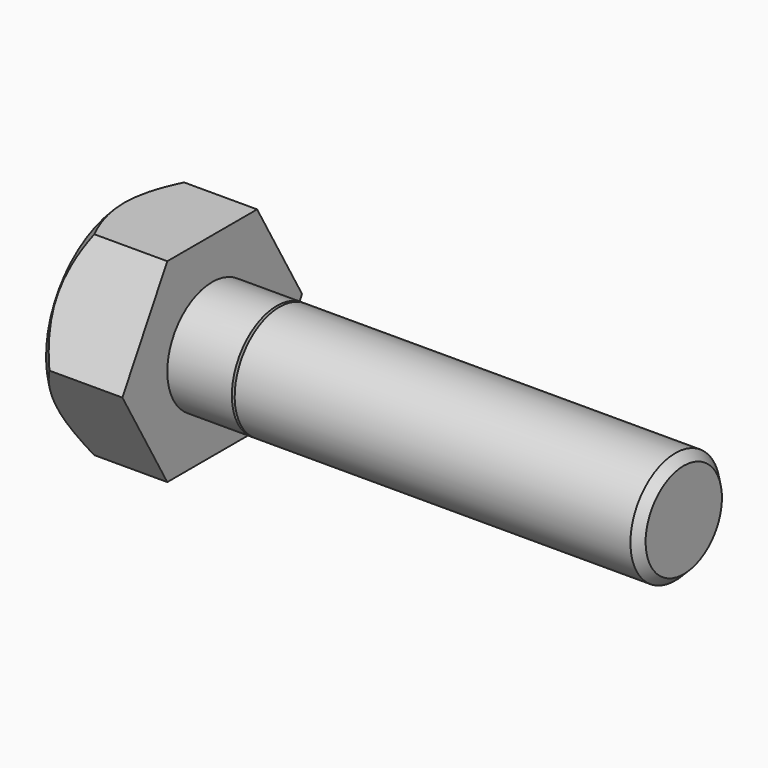
from build123d import *

# Parameters (mm, degrees)
F2_SIZE  = 1.5
F4_DEPTH = 50.001


with BuildPart() as f1:
    # F0 (on Front) → F1 (revolve)
    with BuildSketch(Plane.XZ):
        Polygon((8, 5), (8, 10), (0, 10), (0, 0), (50, 0), (50, 4.25), (49.25, 5), (14, 5), (13.875, 4.25), (13.75, 5), align=None)
    revolve(axis=Axis((25, 0, 0), (1, 0, 0)))

    # F2
    f2_edges = [f1.edges().sort_by_distance(p)[0] for p in [
        (0, 0, -10),
    ]]
    chamfer(f2_edges, length=F2_SIZE)

    # F3 (on face) → F4 (cut, through all)
    with BuildSketch(Plane(origin=(0, 0, 0), x_dir=(0, -1, 0), z_dir=(-1, 0, 0))):
        with BuildLine():
            Line((-10, 0), (-5, 8.660254))
            ThreePointArc((-5, 8.660254), (-8.660254, 5), (-10, 0))
        make_face()
        with BuildLine():
            Line((-5, 8.660254), (5, 8.660254))
            ThreePointArc((5, 8.660254), (0, 10), (-5, 8.660254))
        make_face()
        with BuildLine():
            Line((5, 8.660254), (10, 0))
            ThreePointArc((10, 0), (8.660254, 5), (5, 8.660254))
        make_face()
        with BuildLine():
            ThreePointArc((5, -8.660254), (8.660254, -5), (10, 0))
            Line((10, 0), (5, -8.660254))
        make_face()
        with BuildLine():
            ThreePointArc((-5, -8.660254), (0, -10), (5, -8.660254))
            Line((5, -8.660254), (-5, -8.660254))
        make_face()
        with BuildLine():
            ThreePointArc((-10, 0), (-8.660254, -5), (-5, -8.660254))
            Line((-5, -8.660254), (-10, 0))
        make_face()
    extrude(amount=-F4_DEPTH, mode=Mode.SUBTRACT)


solid = f1.part
